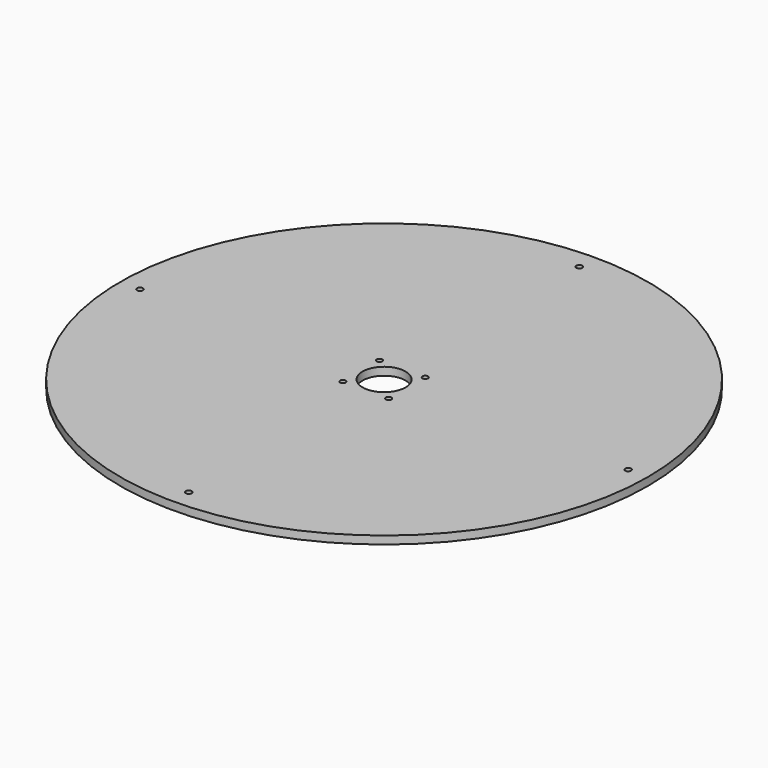
from build123d import *

# Parameters (mm, degrees)
SKETCH089_R           = 398.87
PAD013_DEPTH          = 12
SKETCH090_R           = 4.25
POCKET056_DEPTH       = 0.001
POCKET056_DEPTH_BACK  = 12.001
SKETCH091_R           = 32.5
POCKET057_DEPTH       = 0.001
POCKET057_DEPTH_BACK  = 12.001
SKETCH092_R           = 4.5
POCKET058_DEPTH       = 2256.478091
POCKET058_DEPTH_BACK  = 2268.478091
POLARPATTERN016_COUNT = 4


with BuildPart() as part:
    # Sketch089 → Pad013 (new body)
    with BuildSketch(Plane.XY):
        Circle(SKETCH089_R)
    extrude(amount=PAD013_DEPTH)

    # Sketch090 → Pocket056 (cut, two sides)
    with BuildSketch(Plane.XY) as pocket056_sk:
        with Locations((34.56, 34.56)):
            Circle(SKETCH090_R)
        with Locations((-34.56, 34.56)):
            Circle(SKETCH090_R)
        with Locations((-34.56, -34.56)):
            Circle(SKETCH090_R)
        with Locations((34.56, -34.56)):
            Circle(SKETCH090_R)
    extrude(amount=-POCKET056_DEPTH, mode=Mode.SUBTRACT)
    extrude(pocket056_sk.sketch, amount=POCKET056_DEPTH_BACK, mode=Mode.SUBTRACT)

    # Sketch091 → Pocket057 (cut, two sides)
    with BuildSketch(Plane.XY) as pocket057_sk:
        Circle(SKETCH091_R)
    extrude(amount=-POCKET057_DEPTH, mode=Mode.SUBTRACT)
    extrude(pocket057_sk.sketch, amount=POCKET057_DEPTH_BACK, mode=Mode.SUBTRACT)

    # Sketch092 → Pocket058 (cut, two sides)
    with BuildSketch(Plane(origin=(368.87, 0, 0), x_dir=(1, 0, 0), z_dir=(0, 0, 1))) as pocket058_sk:
        Circle(SKETCH092_R)
    pocket058 = extrude(amount=-POCKET058_DEPTH, mode=Mode.SUBTRACT) + extrude(pocket058_sk.sketch, amount=POCKET058_DEPTH_BACK, mode=Mode.SUBTRACT)

    # PolarPattern016: Pocket058 ×4 about axis
    polarpattern016_axis = Axis((0, 0, 0), (0, 0, 1))
    for i in range(1, POLARPATTERN016_COUNT):
        add(pocket058.rotate(polarpattern016_axis, i * 360 / POLARPATTERN016_COUNT), mode=Mode.SUBTRACT)


solid = part.part
